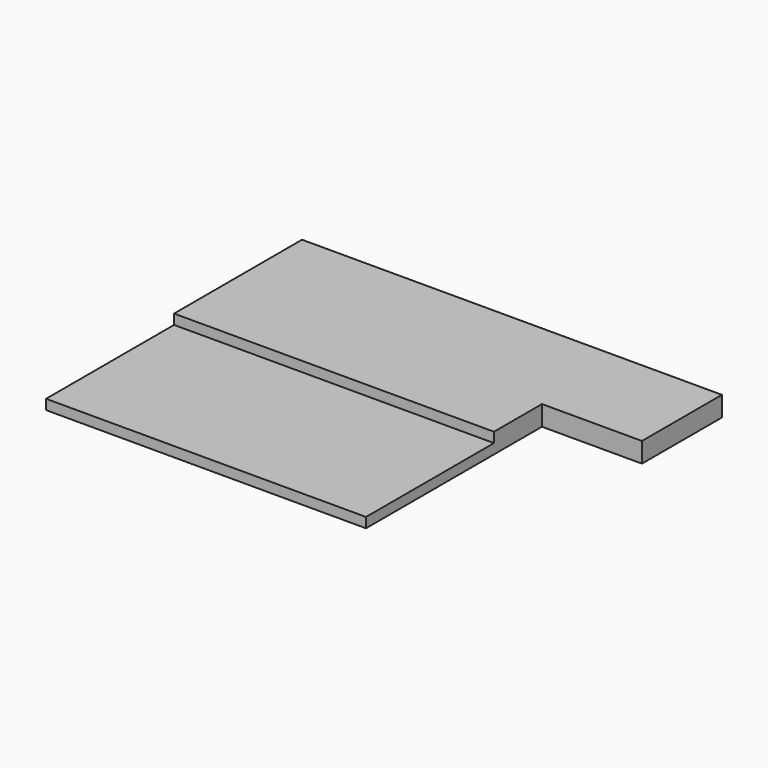
from build123d import *

# Parameters (mm, degrees)
F0_W     = 1524
F0_H     = 1524
F1_DEPTH = 304.8
F2_W     = 4876.8
F2_H     = 2438.4
F3_DEPTH = 152.4


with BuildPart() as f1:
    # F0 (on Top) → F1 (new body)
    with BuildSketch(Plane.XY):
        Polygon((2438.4, 914.4), (2438.4, 2438.4), (-2438.4, 2438.4), (-2438.4, -2438.4), (2438.4, -2438.4), align=None)
        with Locations((3200.4, 1676.4)):
            Rectangle(F0_W, F0_H)
    extrude(amount=-F1_DEPTH)

    # F2 (on face) → F3 (cut)
    with BuildSketch(Plane.XY):
        with Locations((0, -1219.2)):
            Rectangle(F2_W, F2_H)
    extrude(amount=-F3_DEPTH, mode=Mode.SUBTRACT)


solid = f1.part
